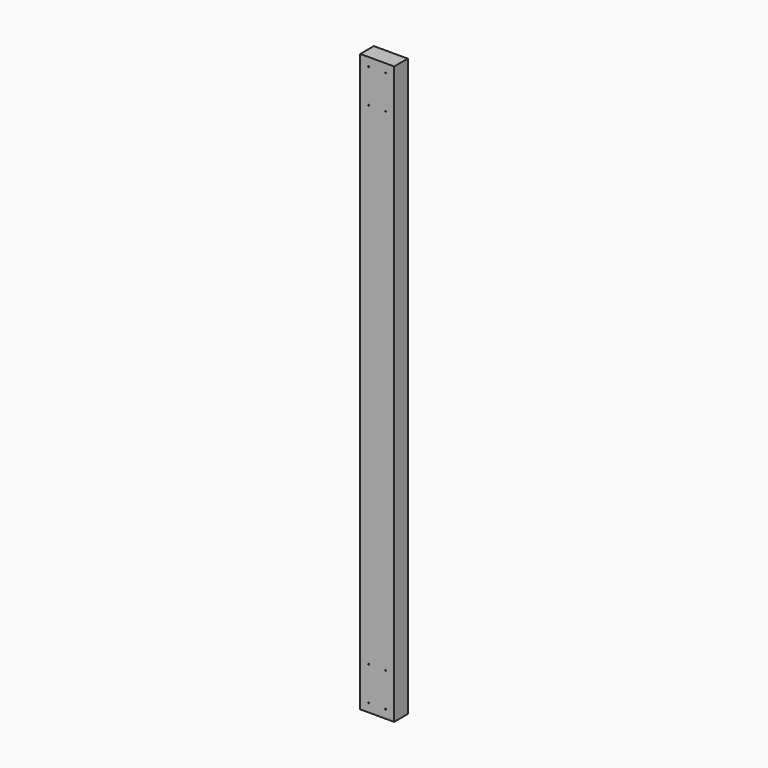
from build123d import *

# Parameters (mm, degrees)
F0_W     = 101.6
F0_H     = 1727.2
F0_R     = 1.5875
F1_DEPTH = 50.8


with BuildPart() as f1:
    # F0 (on Front) → F1 (new body)
    with BuildSketch(Plane.XZ):
        with Locations((-39.804433, 590.206584)):
            Rectangle(F0_W, F0_H)
        with Locations((-65.204433, -247.993416)):
            Circle(F0_R, mode=Mode.SUBTRACT)
        with Locations((-65.204433, -146.393416)):
            Circle(F0_R, mode=Mode.SUBTRACT)
        with Locations((-14.404433, -146.393416)):
            Circle(F0_R, mode=Mode.SUBTRACT)
        with Locations((-14.404433, -247.993416)):
            Circle(F0_R, mode=Mode.SUBTRACT)
        with Locations((-65.204433, 1326.806584)):
            Circle(F0_R, mode=Mode.SUBTRACT)
        with Locations((-65.204433, 1428.406584)):
            Circle(F0_R, mode=Mode.SUBTRACT)
        with Locations((-14.404433, 1326.806584)):
            Circle(F0_R, mode=Mode.SUBTRACT)
        with Locations((-14.404433, 1428.406584)):
            Circle(F0_R, mode=Mode.SUBTRACT)
    extrude(amount=F1_DEPTH)


solid = f1.part
